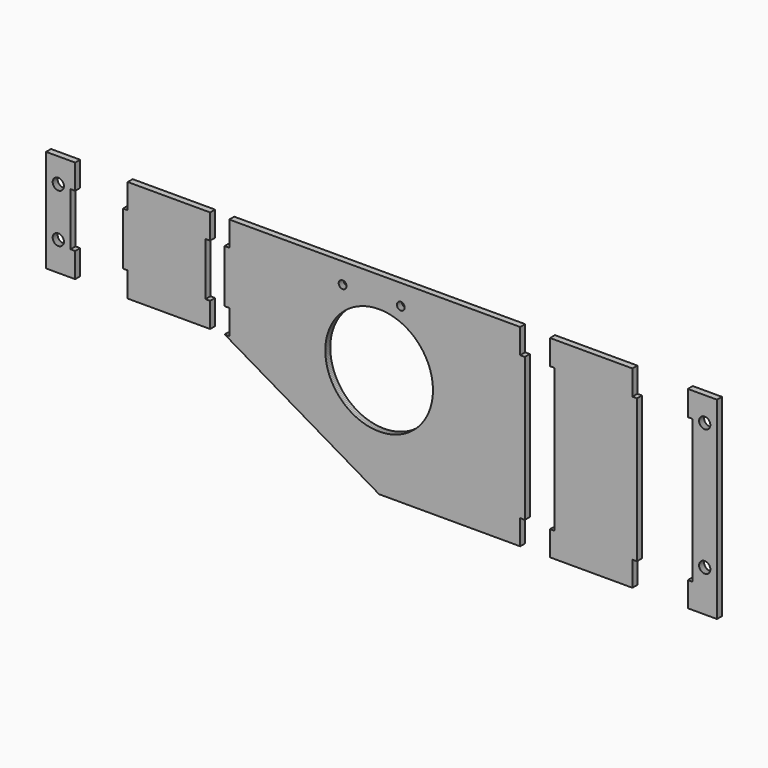
from build123d import *

# Parameters (mm, degrees)
F1_DEPTH = 6.35


with BuildPart() as f1:
    # F0 (on Front) → F1 (new body)
    with BuildSketch(Plane.XZ):
        Polygon((-317.992633, -6.23123), (-313.230133, -6.23123), (-313.230133, 19.16877), (-317.992633, 19.16877), (-317.992633, 73.331273), (-313.230133, 73.331273), (-313.230133, 98.731273), (-317.992633, 98.731273), (-342.992634, 98.731273), (-342.992634, -6.23123), align=None)
        Polygon((-330.620268, 29.47985), (-330.492633, 29.481272), (-330.364998, 29.47985), (-330.236297, 29.475557), (-330.106579, 29.468293), (-329.975972, 29.458006), (-329.844527, 29.44462), (-329.712396, 29.428084), (-329.57963, 29.408323), (-329.446357, 29.385285), (-329.312676, 29.358895), (-329.178717, 29.329151), (-329.04463, 29.295954), (-328.910467, 29.259327), (-328.776406, 29.219169), (-328.642574, 29.175507), (-328.509097, 29.128314), (-328.376077, 29.077564), (-328.243717, 29.023234), (-328.112095, 28.965347), (-327.981361, 28.903905), (-327.851694, 28.838906), (-327.723195, 28.770377), (-327.596017, 28.698368), (-327.470287, 28.622904), (-327.346183, 28.543987), (-327.223806, 28.461716), (-327.103283, 28.376143), (-326.984792, 28.28732), (-326.868409, 28.195295), (-326.754312, 28.100198), (-326.642603, 28.002052), (-326.533383, 27.901011), (-326.426779, 27.797125), (-326.322893, 27.690521), (-326.221852, 27.581301), (-326.123706, 27.469592), (-326.028609, 27.355495), (-325.936585, 27.239112), (-325.847761, 27.120621), (-325.762188, 27.000098), (-325.679918, 26.877721), (-325.601, 26.753617), (-325.525536, 26.627887), (-325.453527, 26.500709), (-325.384998, 26.37221), (-325.32, 26.242543), (-325.258557, 26.11181), (-325.20067, 25.980187), (-325.14634, 25.847827), (-325.095591, 25.714808), (-325.048397, 25.581331), (-325.004735, 25.447498), (-324.964577, 25.313437), (-324.927951, 25.179274), (-324.894753, 25.045187), (-324.865009, 24.911228), (-324.838619, 24.777548), (-324.815581, 24.644274), (-324.79582, 24.511508), (-324.779284, 24.379377), (-324.765899, 24.247932), (-324.755612, 24.117325), (-324.748347, 23.987608), (-324.744055, 23.858906), (-324.742632, 23.731271), (-324.744055, 23.603636), (-324.748347, 23.474934), (-324.755612, 23.345216), (-324.765899, 23.214609), (-324.779284, 23.083164), (-324.79582, 22.951034), (-324.815581, 22.818268), (-324.838619, 22.684994), (-324.865009, 22.551314), (-324.894753, 22.417354), (-324.927951, 22.283268), (-324.964577, 22.149105), (-325.004735, 22.015044), (-325.048397, 21.881211), (-325.095591, 21.747734), (-325.14634, 21.614714), (-325.20067, 21.482355), (-325.258557, 21.350732), (-325.32, 21.219998), (-325.384998, 21.090331), (-325.453527, 20.961833), (-325.525536, 20.834655), (-325.601, 20.708925), (-325.679918, 20.58482), (-325.762188, 20.462443), (-325.847761, 20.34192), (-325.936585, 20.223429), (-326.028609, 20.107046), (-326.123706, 19.99295), (-326.221852, 19.88124), (-326.322893, 19.77202), (-326.426779, 19.665417), (-326.533383, 19.561531), (-326.642603, 19.460464), (-326.754312, 19.362344), (-326.868409, 19.267246), (-326.984792, 19.175222), (-327.103283, 19.086398), (-327.223806, 19.000826), (-327.346183, 18.918555), (-327.470287, 18.839637), (-327.596017, 18.764174), (-327.723195, 18.692165), (-327.851694, 18.623636), (-327.981361, 18.558637), (-328.112095, 18.497194), (-328.243717, 18.439308), (-328.376077, 18.384977), (-328.509097, 18.334228), (-328.642574, 18.287035), (-328.776406, 18.243372), (-328.910467, 18.203215), (-329.04463, 18.166588), (-329.178717, 18.13339), (-329.312676, 18.103647), (-329.446357, 18.077256), (-329.57963, 18.054218), (-329.712396, 18.034457), (-329.844527, 18.017922), (-329.975972, 18.004536), (-330.106579, 17.994249), (-330.236297, 17.986985), (-330.364998, 17.982692), (-330.492633, 17.98127), (-330.620268, 17.982692), (-330.74897, 17.986985), (-330.878688, 17.994249), (-331.009295, 18.004536), (-331.14074, 18.017922), (-331.272871, 18.034457), (-331.405636, 18.054218), (-331.53891, 18.077256), (-331.67259, 18.103647), (-331.80655, 18.13339), (-331.940637, 18.166588), (-332.074799, 18.203215), (-332.208861, 18.243372), (-332.342693, 18.287035), (-332.47617, 18.334228), (-332.60919, 18.384977), (-332.741549, 18.439308), (-332.873172, 18.497194), (-333.003906, 18.558637), (-333.133573, 18.623636), (-333.262072, 18.692165), (-333.389249, 18.764174), (-333.514979, 18.839637), (-333.639084, 18.918555), (-333.761461, 19.000826), (-333.881984, 19.086398), (-334.000475, 19.175222), (-334.116858, 19.267246), (-334.230955, 19.362344), (-334.342664, 19.460464), (-334.451884, 19.561531), (-334.558488, 19.665417), (-334.662374, 19.77202), (-334.76344, 19.88124), (-334.86156, 19.99295), (-334.956658, 20.107046), (-335.048682, 20.223429), (-335.137506, 20.34192), (-335.223079, 20.462443), (-335.305349, 20.58482), (-335.384267, 20.708925), (-335.45973, 20.834655), (-335.531739, 20.961833), (-335.600269, 21.090331), (-335.665267, 21.219998), (-335.72671, 21.350732), (-335.784596, 21.482355), (-335.838927, 21.614714), (-335.889676, 21.747734), (-335.936869, 21.881211), (-335.980532, 22.015044), (-336.020689, 22.149105), (-336.057316, 22.283268), (-336.090514, 22.417354), (-336.120257, 22.551314), (-336.146648, 22.684994), (-336.169686, 22.818268), (-336.189447, 22.951034), (-336.205982, 23.083164), (-336.219368, 23.214609), (-336.229655, 23.345216), (-336.23692, 23.474934), (-336.241212, 23.603636), (-336.242635, 23.731271), (-336.241212, 23.858906), (-336.23692, 23.987608), (-336.229655, 24.117325), (-336.219368, 24.247932), (-336.205982, 24.379377), (-336.189447, 24.511508), (-336.169686, 24.644274), (-336.146648, 24.777548), (-336.120257, 24.911228), (-336.090514, 25.045187), (-336.057316, 25.179274), (-336.020689, 25.313437), (-335.980532, 25.447498), (-335.936869, 25.581331), (-335.889676, 25.714808), (-335.838927, 25.847827), (-335.784596, 25.980187), (-335.72671, 26.11181), (-335.665267, 26.242543), (-335.600269, 26.37221), (-335.531739, 26.500709), (-335.45973, 26.627887), (-335.384267, 26.753617), (-335.305349, 26.877721), (-335.223079, 27.000098), (-335.137506, 27.120621), (-335.048682, 27.239112), (-334.956658, 27.355495), (-334.86156, 27.469592), (-334.76344, 27.581301), (-334.662374, 27.690521), (-334.558488, 27.797125), (-334.451884, 27.901011), (-334.342664, 28.002052), (-334.230955, 28.100198), (-334.116858, 28.195295), (-334.000475, 28.28732), (-333.881984, 28.376143), (-333.761461, 28.461716), (-333.639084, 28.543987), (-333.514979, 28.622904), (-333.389249, 28.698368), (-333.262072, 28.770377), (-333.133573, 28.838906), (-333.003906, 28.903905), (-332.873172, 28.965347), (-332.741549, 29.023234), (-332.60919, 29.077564), (-332.47617, 29.128314), (-332.342693, 29.175507), (-332.208861, 29.219169), (-332.074799, 29.259327), (-331.940637, 29.295954), (-331.80655, 29.329151), (-331.67259, 29.358895), (-331.53891, 29.385285), (-331.405636, 29.408323), (-331.272871, 29.428084), (-331.14074, 29.44462), (-331.009295, 29.458006), (-330.878688, 29.468293), (-330.74897, 29.475557), align=None, mode=Mode.SUBTRACT)
        Polygon((-330.620268, 79.479851), (-330.492633, 79.481274), (-330.364998, 79.479851), (-330.236297, 79.475559), (-330.106579, 79.468294), (-329.975972, 79.458007), (-329.844527, 79.444621), (-329.712396, 79.428086), (-329.57963, 79.408325), (-329.446357, 79.385287), (-329.312676, 79.358896), (-329.178717, 79.329153), (-329.04463, 79.295955), (-328.910467, 79.259303), (-328.776406, 79.219171), (-328.642574, 79.175508), (-328.509097, 79.128315), (-328.376077, 79.077541), (-328.243717, 79.023235), (-328.112095, 78.965349), (-327.981361, 78.903906), (-327.851694, 78.838908), (-327.723195, 78.770378), (-327.596017, 78.698369), (-327.470287, 78.622881), (-327.346183, 78.543988), (-327.223806, 78.461718), (-327.103283, 78.376145), (-326.984792, 78.287321), (-326.868409, 78.195297), (-326.754312, 78.100199), (-326.642603, 78.002054), (-326.533383, 77.901013), (-326.426779, 77.797127), (-326.322893, 77.690523), (-326.221852, 77.581303), (-326.123706, 77.469594), (-326.028609, 77.355497), (-325.936585, 77.239114), (-325.847761, 77.120623), (-325.762188, 77.0001), (-325.679918, 76.877723), (-325.601, 76.753618), (-325.525536, 76.627888), (-325.453527, 76.500711), (-325.384998, 76.372212), (-325.32, 76.242545), (-325.258557, 76.111811), (-325.20067, 75.980188), (-325.14634, 75.847804), (-325.095591, 75.714809), (-325.048397, 75.581332), (-325.004735, 75.4475), (-324.964577, 75.313438), (-324.927951, 75.179276), (-324.894753, 75.045164), (-324.865009, 74.911229), (-324.838619, 74.777549), (-324.815581, 74.644275), (-324.79582, 74.51151), (-324.779284, 74.379379), (-324.765899, 74.247934), (-324.755612, 74.117327), (-324.748347, 73.987609), (-324.744055, 73.858907), (-324.742632, 73.731272), (-324.744055, 73.603637), (-324.748347, 73.474936), (-324.755612, 73.345218), (-324.765899, 73.214611), (-324.779284, 73.083166), (-324.79582, 72.95101), (-324.815581, 72.818244), (-324.838619, 72.68497), (-324.865009, 72.551315), (-324.894753, 72.417356), (-324.927951, 72.283269), (-324.964577, 72.149106), (-325.004735, 72.015045), (-325.048397, 71.881213), (-325.095591, 71.747736), (-325.14634, 71.614716), (-325.20067, 71.482356), (-325.258557, 71.350734), (-325.32, 71.22), (-325.384998, 71.090333), (-325.453527, 70.961834), (-325.525536, 70.834656), (-325.601, 70.708926), (-325.679918, 70.584822), (-325.762188, 70.462445), (-325.847761, 70.341922), (-325.936585, 70.223431), (-326.028609, 70.107048), (-326.123706, 69.992951), (-326.221852, 69.881217), (-326.322893, 69.772022), (-326.426779, 69.665418), (-326.533383, 69.561532), (-326.642603, 69.460466), (-326.754312, 69.362345), (-326.868409, 69.267248), (-326.984792, 69.175224), (-327.103283, 69.0864), (-327.223806, 69.000827), (-327.346183, 68.918557), (-327.470287, 68.839639), (-327.596017, 68.764175), (-327.723195, 68.692166), (-327.851694, 68.623637), (-327.981361, 68.558639), (-328.112095, 68.497196), (-328.243717, 68.439309), (-328.376077, 68.384979), (-328.509097, 68.33423), (-328.642574, 68.287036), (-328.776406, 68.243374), (-328.910467, 68.203216), (-329.04463, 68.16659), (-329.178717, 68.133392), (-329.312676, 68.103648), (-329.446357, 68.077258), (-329.57963, 68.05422), (-329.712396, 68.034459), (-329.844527, 68.017923), (-329.975972, 68.004538), (-330.106579, 67.994251), (-330.236297, 67.986986), (-330.364998, 67.982694), (-330.492633, 67.981271), (-330.620268, 67.982694), (-330.74897, 67.986986), (-330.878688, 67.994251), (-331.009295, 68.004538), (-331.14074, 68.017923), (-331.272871, 68.034459), (-331.405636, 68.05422), (-331.53891, 68.077258), (-331.67259, 68.103648), (-331.80655, 68.133392), (-331.940637, 68.16659), (-332.074799, 68.203216), (-332.208861, 68.243374), (-332.342693, 68.287036), (-332.47617, 68.33423), (-332.60919, 68.384979), (-332.741549, 68.439309), (-332.873172, 68.497196), (-333.003906, 68.558639), (-333.133573, 68.623637), (-333.262072, 68.692166), (-333.389249, 68.764175), (-333.514979, 68.839639), (-333.639084, 68.918557), (-333.761461, 69.000827), (-333.881984, 69.0864), (-334.000475, 69.175224), (-334.116858, 69.267248), (-334.230955, 69.362345), (-334.342664, 69.460466), (-334.451884, 69.561532), (-334.558488, 69.665418), (-334.662374, 69.772022), (-334.76344, 69.881217), (-334.86156, 69.992951), (-334.956658, 70.107048), (-335.048682, 70.223431), (-335.137506, 70.341922), (-335.223079, 70.462445), (-335.305349, 70.584822), (-335.384267, 70.708926), (-335.45973, 70.834656), (-335.531739, 70.961834), (-335.600269, 71.090333), (-335.665267, 71.22), (-335.72671, 71.350734), (-335.784596, 71.482356), (-335.838927, 71.614716), (-335.889676, 71.747736), (-335.936869, 71.881213), (-335.980532, 72.015045), (-336.020689, 72.149106), (-336.057316, 72.283269), (-336.090514, 72.417356), (-336.120257, 72.551315), (-336.146648, 72.68497), (-336.169686, 72.818244), (-336.189447, 72.95101), (-336.205982, 73.083166), (-336.219368, 73.214611), (-336.229655, 73.345218), (-336.23692, 73.474936), (-336.241212, 73.603637), (-336.242635, 73.731272), (-336.241212, 73.858907), (-336.23692, 73.987609), (-336.229655, 74.117327), (-336.219368, 74.247934), (-336.205982, 74.379379), (-336.189447, 74.51151), (-336.169686, 74.644275), (-336.146648, 74.777549), (-336.120257, 74.911229), (-336.090514, 75.045164), (-336.057316, 75.179276), (-336.020689, 75.313438), (-335.980532, 75.4475), (-335.936869, 75.581332), (-335.889676, 75.714809), (-335.838927, 75.847804), (-335.784596, 75.980188), (-335.72671, 76.111811), (-335.665267, 76.242545), (-335.600269, 76.372212), (-335.531739, 76.500711), (-335.45973, 76.627888), (-335.384267, 76.753618), (-335.305349, 76.877723), (-335.223079, 77.0001), (-335.137506, 77.120623), (-335.048682, 77.239114), (-334.956658, 77.355497), (-334.86156, 77.469594), (-334.76344, 77.581303), (-334.662374, 77.690523), (-334.558488, 77.797127), (-334.451884, 77.901013), (-334.342664, 78.002054), (-334.230955, 78.100199), (-334.116858, 78.195297), (-334.000475, 78.287321), (-333.881984, 78.376145), (-333.761461, 78.461718), (-333.639084, 78.543988), (-333.514979, 78.622881), (-333.389249, 78.698369), (-333.262072, 78.770378), (-333.133573, 78.838908), (-333.003906, 78.903906), (-332.873172, 78.965349), (-332.741549, 79.023235), (-332.60919, 79.077541), (-332.47617, 79.128315), (-332.342693, 79.175508), (-332.208861, 79.219171), (-332.074799, 79.259303), (-331.940637, 79.295955), (-331.80655, 79.329153), (-331.67259, 79.358896), (-331.53891, 79.385287), (-331.405636, 79.408325), (-331.272871, 79.428086), (-331.14074, 79.444621), (-331.009295, 79.458007), (-330.878688, 79.468294), (-330.74897, 79.475559), align=None, mode=Mode.SUBTRACT)
        Polygon((-264.267747, 19.16877), (-259.505247, 19.16877), (-259.505247, -6.23123), (-180.030247, -6.23123), (-175.267747, -6.23123), (-175.267747, 19.16877), (-180.030247, 19.16877), (-180.030247, 73.331273), (-175.267747, 73.331273), (-175.267747, 98.731273), (-180.030247, 98.731273), (-259.505247, 98.731273), (-259.505247, 73.331273), (-264.267747, 73.331273), align=None)
        Polygon((-160.435646, 73.331273), (-160.435646, 19.16877), (-155.673146, 19.16877), (-155.673146, -6.23123), (-160.435646, -6.23123), (-2.435657, -98.731222), (141.80185, -98.731222), (141.80185, -73.331222), (146.56435, -73.331222), (146.56435, 73.331273), (141.80185, 73.331273), (141.80185, 98.731273), (-155.673146, 98.731273), (-155.673146, 73.331273), align=None)
        Polygon((-3.656432, 67.755211), (-2.435657, 67.768775), (-1.214882, 67.755211), (0.016256, 67.714089), (1.256944, 67.64467), (2.506345, 67.546296), (3.763543, 67.41828), (5.0276, 67.260064), (6.297524, 67.070986), (7.572324, 66.850565), (8.850884, 66.598267), (10.132136, 66.313609), (11.414912, 65.996236), (12.698044, 65.645716), (13.980338, 65.261769), (15.260523, 64.844143), (16.537381, 64.392658), (17.809566, 63.907137), (19.075806, 63.387529), (20.334783, 62.833809), (21.585149, 62.246053), (22.825558, 61.624388), (24.054689, 60.969017), (25.271171, 60.280169), (26.473683, 59.558199), (27.660879, 58.803515), (28.831489, 58.016597), (29.984167, 57.197981), (31.117667, 56.3483), (32.230746, 55.46819), (33.322209, 54.558438), (34.390838, 53.619832), (35.43554, 52.65326), (36.455223, 51.659638), (37.448846, 50.639955), (38.415417, 49.595253), (39.354023, 48.526624), (40.263775, 47.43516), (41.143885, 46.322082), (41.993566, 45.188581), (42.812183, 44.035904), (43.5991, 42.865319), (44.353785, 41.678098), (45.075754, 40.475586), (45.764577, 39.259104), (46.419973, 38.029972), (47.041638, 36.789563), (47.629394, 35.539197), (48.183089, 34.280221), (48.702722, 33.01398), (49.188243, 31.741796), (49.639728, 30.464938), (50.057355, 29.184752), (50.441301, 27.902484), (50.791796, 26.619327), (51.109194, 25.336551), (51.393852, 24.055299), (51.64615, 22.776739), (51.866571, 21.501964), (52.055649, 20.232014), (52.213866, 18.967958), (52.341882, 17.71076), (52.440256, 16.461384), (52.509674, 15.220696), (52.550797, 13.989558), (52.56436, 12.768758), (52.550797, 11.547983), (52.509674, 10.316845), (52.440256, 9.076157), (52.341882, 7.826781), (52.213866, 6.569583), (52.055649, 5.305527), (51.866571, 4.035577), (51.64615, 2.760802), (51.393852, 1.482242), (51.109194, 0.20099), (50.791796, -1.081786), (50.441301, -2.364943), (50.057355, -3.647211), (49.639728, -4.927397), (49.188243, -6.204255), (48.702722, -7.476439), (48.183089, -8.74268), (47.629394, -10.001656), (47.041638, -11.252022), (46.419973, -12.492431), (45.764577, -13.721563), (45.075754, -14.938045), (44.353785, -16.140557), (43.5991, -17.327778), (42.812183, -18.498363), (41.993566, -19.65104), (41.143885, -20.784541), (40.263775, -21.897619), (39.354023, -22.989083), (38.415417, -24.057712), (37.448846, -25.102414), (36.455223, -26.122097), (35.43554, -27.115719), (34.390838, -28.082291), (33.322209, -29.020897), (32.230746, -29.930649), (31.117667, -30.810759), (29.984167, -31.66044), (28.831489, -32.479056), (27.660879, -33.265974), (26.473683, -34.020658), (25.271171, -34.742628), (24.054689, -35.431476), (22.825558, -36.086847), (21.585149, -36.708512), (20.334783, -37.296268), (19.075806, -37.849988), (17.809566, -38.369596), (16.537381, -38.855117), (15.260523, -39.306602), (13.980338, -39.724228), (12.698044, -40.108175), (11.414912, -40.458695), (10.132136, -40.776068), (8.850884, -41.060726), (7.572324, -41.313024), (6.297524, -41.533445), (5.0276, -41.722523), (3.763543, -41.880739), (2.506345, -42.008755), (1.256944, -42.107129), (0.016256, -42.176548), (-1.214882, -42.21767), (-2.435657, -42.231234), (-3.656432, -42.21767), (-4.88757, -42.176548), (-6.128258, -42.107129), (-7.377633, -42.008755), (-8.634832, -41.880739), (-9.898888, -41.722523), (-11.168837, -41.533445), (-12.443612, -41.313024), (-13.722172, -41.060726), (-15.003424, -40.776068), (-16.286201, -40.458695), (-17.569358, -40.108175), (-18.851626, -39.724228), (-20.131837, -39.306602), (-21.408669, -38.855117), (-22.680854, -38.369596), (-23.947095, -37.849988), (-25.206071, -37.296268), (-26.456437, -36.708512), (-27.696846, -36.086847), (-28.925977, -35.431476), (-30.142459, -34.742628), (-31.344972, -34.020658), (-32.532193, -33.265974), (-33.702777, -32.479056), (-34.855455, -31.66044), (-35.988955, -30.810759), (-37.102034, -29.930649), (-38.193497, -29.020897), (-39.262126, -28.082291), (-40.306828, -27.115719), (-41.326511, -26.122097), (-42.320134, -25.102414), (-43.286705, -24.057712), (-44.225312, -22.989083), (-45.135063, -21.897619), (-46.015173, -20.784541), (-46.86488, -19.65104), (-47.683471, -18.498363), (-48.470388, -17.327778), (-49.225073, -16.140557), (-49.947043, -14.938045), (-50.635891, -13.721563), (-51.291261, -12.492431), (-51.912926, -11.252022), (-52.500682, -10.001656), (-53.054402, -8.74268), (-53.57401, -7.476439), (-54.059531, -6.204255), (-54.511016, -4.927397), (-54.928643, -3.647211), (-55.312589, -2.364943), (-55.663109, -1.081786), (-55.980482, 0.20099), (-56.26514, 1.482242), (-56.517438, 2.760802), (-56.73786, 4.035577), (-56.926937, 5.305527), (-57.085179, 6.569583), (-57.21317, 7.826781), (-57.311544, 9.076157), (-57.380962, 10.316845), (-57.422085, 11.547983), (-57.435648, 12.768758), (-57.422085, 13.989558), (-57.380962, 15.220696), (-57.311544, 16.461384), (-57.21317, 17.71076), (-57.085179, 18.967958), (-56.926937, 20.232014), (-56.73786, 21.501964), (-56.517438, 22.776739), (-56.26514, 24.055299), (-55.980482, 25.336551), (-55.663109, 26.619327), (-55.312589, 27.902484), (-54.928643, 29.184752), (-54.511016, 30.464938), (-54.059531, 31.741796), (-53.57401, 33.01398), (-53.054402, 34.280221), (-52.500682, 35.539197), (-51.912926, 36.789563), (-51.291261, 38.029972), (-50.635891, 39.259104), (-49.947043, 40.475586), (-49.225073, 41.678098), (-48.470388, 42.865319), (-47.683471, 44.035904), (-46.86488, 45.188581), (-46.015173, 46.322082), (-45.135063, 47.43516), (-44.225312, 48.526624), (-43.286705, 49.595253), (-42.320134, 50.639955), (-41.326511, 51.659638), (-40.306828, 52.65326), (-39.262126, 53.619832), (-38.193497, 54.558438), (-37.102034, 55.46819), (-35.988955, 56.3483), (-34.855455, 57.197981), (-33.702777, 58.016597), (-32.532193, 58.803515), (-31.344972, 59.558199), (-30.142459, 60.280169), (-28.925977, 60.969017), (-27.696846, 61.624388), (-26.456437, 62.246053), (-25.206071, 62.833809), (-23.947095, 63.387529), (-22.680854, 63.907137), (-21.408669, 64.392658), (-20.131837, 64.844143), (-18.851626, 65.261769), (-17.569358, 65.645716), (-16.286201, 65.996236), (-15.003424, 66.313609), (-13.722172, 66.598267), (-12.443612, 66.850565), (-11.168837, 67.070986), (-9.898888, 67.260064), (-8.634832, 67.41828), (-7.377633, 67.546296), (-6.128258, 67.64467), (-4.88757, 67.714089), align=None, mode=Mode.SUBTRACT)
        Polygon((-39.846326, 81.766385), (-39.757553, 81.767375), (-39.668755, 81.766385), (-39.57922, 81.763387), (-39.488999, 81.758333), (-39.398118, 81.751195), (-39.306703, 81.741874), (-39.214755, 81.730367), (-39.122401, 81.716626), (-39.029691, 81.700599), (-38.936701, 81.682234), (-38.843534, 81.661533), (-38.75024, 81.63847), (-38.65692, 81.612969), (-38.563652, 81.585054), (-38.470561, 81.554676), (-38.377698, 81.521833), (-38.285166, 81.486527), (-38.193066, 81.448732), (-38.101524, 81.408473), (-38.010592, 81.365725), (-37.920371, 81.320513), (-37.830989, 81.272837), (-37.742495, 81.222748), (-37.655043, 81.170247), (-37.568708, 81.115357), (-37.483567, 81.058131), (-37.399747, 80.998593), (-37.317299, 80.936795), (-37.236349, 80.872787), (-37.156974, 80.80662), (-37.07925, 80.738345), (-37.003279, 80.668063), (-36.929111, 80.5958), (-36.856848, 80.521632), (-36.786566, 80.445661), (-36.718291, 80.367937), (-36.652124, 80.288562), (-36.588116, 80.207612), (-36.526343, 80.125164), (-36.466805, 80.041344), (-36.409554, 79.956203), (-36.35469, 79.869868), (-36.302163, 79.782416), (-36.252074, 79.693948), (-36.204398, 79.60454), (-36.159186, 79.514344), (-36.116463, 79.423412), (-36.076179, 79.331845), (-36.038384, 79.239745), (-36.003078, 79.147238), (-35.970235, 79.054376), (-35.939882, 78.961259), (-35.911942, 78.867991), (-35.886466, 78.774696), (-35.863378, 78.681402), (-35.842677, 78.58821), (-35.824312, 78.49522), (-35.808285, 78.40251), (-35.794544, 78.310156), (-35.783037, 78.218233), (-35.773716, 78.126793), (-35.766578, 78.035912), (-35.761524, 77.945691), (-35.758526, 77.856156), (-35.757536, 77.767358), (-35.758526, 77.678585), (-35.761524, 77.58905), (-35.766578, 77.498829), (-35.773716, 77.407948), (-35.783037, 77.316508), (-35.794544, 77.224585), (-35.808285, 77.132231), (-35.824312, 77.039521), (-35.842677, 76.946531), (-35.863378, 76.853339), (-35.886466, 76.760045), (-35.911942, 76.666725), (-35.939882, 76.573482), (-35.970235, 76.480365), (-36.003078, 76.387503), (-36.038384, 76.294996), (-36.076179, 76.202896), (-36.116463, 76.111329), (-36.159186, 76.020397), (-36.204398, 75.930201), (-36.252074, 75.840793), (-36.302163, 75.752325), (-36.35469, 75.664873), (-36.409554, 75.578538), (-36.466805, 75.493397), (-36.526343, 75.409577), (-36.588116, 75.327129), (-36.652124, 75.246179), (-36.718291, 75.166804), (-36.786566, 75.08908), (-36.856848, 75.013109), (-36.929111, 74.938941), (-37.003279, 74.866678), (-37.07925, 74.796396), (-37.156974, 74.728121), (-37.236349, 74.661954), (-37.317299, 74.597946), (-37.399747, 74.536148), (-37.483567, 74.47661), (-37.568708, 74.419384), (-37.655043, 74.364494), (-37.742495, 74.311993), (-37.830989, 74.261904), (-37.920371, 74.214228), (-38.010592, 74.169016), (-38.101524, 74.126268), (-38.193066, 74.086009), (-38.285166, 74.048214), (-38.377698, 74.012908), (-38.470561, 73.980065), (-38.563652, 73.949687), (-38.65692, 73.921772), (-38.75024, 73.896271), (-38.843534, 73.873208), (-38.936701, 73.852507), (-39.029691, 73.834142), (-39.122401, 73.818115), (-39.214755, 73.804374), (-39.306703, 73.792867), (-39.398118, 73.783546), (-39.488999, 73.776408), (-39.57922, 73.771354), (-39.668755, 73.768356), (-39.757553, 73.767366), (-39.846326, 73.768356), (-39.935861, 73.771354), (-40.026107, 73.776408), (-40.116963, 73.783546), (-40.208403, 73.792867), (-40.300326, 73.804374), (-40.39268, 73.818115), (-40.48539, 73.834142), (-40.57838, 73.852507), (-40.671572, 73.873208), (-40.764866, 73.896271), (-40.858186, 73.921772), (-40.951429, 73.949687), (-41.044546, 73.980065), (-41.137408, 74.012908), (-41.229915, 74.048214), (-41.322015, 74.086009), (-41.413582, 74.126268), (-41.504514, 74.169016), (-41.594735, 74.214228), (-41.684118, 74.261904), (-41.772586, 74.311993), (-41.860038, 74.364494), (-41.946373, 74.419384), (-42.031514, 74.47661), (-42.115359, 74.536148), (-42.197782, 74.597946), (-42.278732, 74.661954), (-42.358107, 74.728121), (-42.435831, 74.796396), (-42.511802, 74.866678), (-42.58597, 74.938941), (-42.658233, 75.013109), (-42.72854, 75.08908), (-42.79679, 75.166804), (-42.862957, 75.246179), (-42.926965, 75.327129), (-42.988763, 75.409577), (-43.048301, 75.493397), (-43.105527, 75.578538), (-43.160417, 75.664873), (-43.212918, 75.752325), (-43.263007, 75.840793), (-43.310683, 75.930201), (-43.355895, 76.020397), (-43.398643, 76.111329), (-43.438902, 76.202896), (-43.476697, 76.294996), (-43.512003, 76.387503), (-43.544846, 76.480365), (-43.575224, 76.573482), (-43.603139, 76.666725), (-43.62864, 76.760045), (-43.651729, 76.853339), (-43.67243, 76.946531), (-43.690769, 77.039521), (-43.706796, 77.132231), (-43.720537, 77.224585), (-43.732069, 77.316508), (-43.741365, 77.407948), (-43.748528, 77.498829), (-43.753557, 77.58905), (-43.756555, 77.678585), (-43.757545, 77.767358), (-43.756555, 77.856156), (-43.753557, 77.945691), (-43.748528, 78.035912), (-43.741365, 78.126793), (-43.732069, 78.218233), (-43.720537, 78.310156), (-43.706796, 78.40251), (-43.690769, 78.49522), (-43.67243, 78.58821), (-43.651729, 78.681402), (-43.62864, 78.774696), (-43.603139, 78.867991), (-43.575224, 78.961259), (-43.544846, 79.054376), (-43.512003, 79.147238), (-43.476697, 79.239745), (-43.438902, 79.331845), (-43.398643, 79.423412), (-43.355895, 79.514344), (-43.310683, 79.60454), (-43.263007, 79.693948), (-43.212918, 79.782416), (-43.160417, 79.869868), (-43.105527, 79.956203), (-43.048301, 80.041344), (-42.988763, 80.125164), (-42.926965, 80.207612), (-42.862957, 80.288562), (-42.79679, 80.367937), (-42.72854, 80.445661), (-42.658233, 80.521632), (-42.58597, 80.5958), (-42.511802, 80.668063), (-42.435831, 80.738345), (-42.358107, 80.80662), (-42.278732, 80.872787), (-42.197782, 80.936795), (-42.115359, 80.998593), (-42.031514, 81.058131), (-41.946373, 81.115357), (-41.860038, 81.170247), (-41.772586, 81.222748), (-41.684118, 81.272837), (-41.594735, 81.320513), (-41.504514, 81.365725), (-41.413582, 81.408473), (-41.322015, 81.448732), (-41.229915, 81.486527), (-41.137408, 81.521833), (-41.044546, 81.554676), (-40.951429, 81.585054), (-40.858186, 81.612969), (-40.764866, 81.63847), (-40.671572, 81.661533), (-40.57838, 81.682234), (-40.48539, 81.700599), (-40.39268, 81.716626), (-40.300326, 81.730367), (-40.208403, 81.741874), (-40.116963, 81.751195), (-40.026107, 81.758333), (-39.935861, 81.763387), align=None, mode=Mode.SUBTRACT)
        Polygon((19.633692, 81.765394), (19.722465, 81.766385), (19.811213, 81.765394), (19.900722, 81.762397), (19.990943, 81.757368), (20.081773, 81.750205), (20.173188, 81.740908), (20.265111, 81.729402), (20.35744, 81.715661), (20.450124, 81.699633), (20.543088, 81.681269), (20.636255, 81.660594), (20.729524, 81.637505), (20.822818, 81.612029), (20.916062, 81.584114), (21.009127, 81.553736), (21.101964, 81.520919), (21.194471, 81.485613), (21.286546, 81.447818), (21.378088, 81.407559), (21.468994, 81.364836), (21.55919, 81.319624), (21.648547, 81.271974), (21.73699, 81.221885), (21.824442, 81.169408), (21.910751, 81.114519), (21.995867, 81.057318), (22.079687, 80.997781), (22.162084, 80.936008), (22.243034, 80.872025), (22.322384, 80.805858), (22.400082, 80.737634), (22.476054, 80.667352), (22.550196, 80.595089), (22.622434, 80.520972), (22.692716, 80.445), (22.760965, 80.367302), (22.827107, 80.287952), (22.89109, 80.207002), (22.952862, 80.124605), (23.0124, 80.040785), (23.069601, 79.955669), (23.12449, 79.86936), (23.176967, 79.781908), (23.227055, 79.693465), (23.274706, 79.604108), (23.319918, 79.513913), (23.362641, 79.422981), (23.4029, 79.331464), (23.440695, 79.239389), (23.476001, 79.146883), (23.508818, 79.054046), (23.539196, 78.960955), (23.567111, 78.867737), (23.592587, 78.774442), (23.615675, 78.681174), (23.636351, 78.588006), (23.654715, 78.495042), (23.670743, 78.402358), (23.684484, 78.310029), (23.69599, 78.218106), (23.705287, 78.126692), (23.712449, 78.035861), (23.717504, 77.94564), (23.720476, 77.856131), (23.721466, 77.767358), (23.720476, 77.67861), (23.717504, 77.589101), (23.712449, 77.49888), (23.705287, 77.408049), (23.69599, 77.316635), (23.684484, 77.224712), (23.670743, 77.132383), (23.654715, 77.039699), (23.636351, 76.946735), (23.615675, 76.853567), (23.592587, 76.760299), (23.567111, 76.667004), (23.539196, 76.573786), (23.508818, 76.480695), (23.476001, 76.387858), (23.440695, 76.295352), (23.4029, 76.203277), (23.362641, 76.111735), (23.319918, 76.020828), (23.274706, 75.930633), (23.227055, 75.841276), (23.176967, 75.752833), (23.12449, 75.665381), (23.069601, 75.579072), (23.0124, 75.493956), (22.952862, 75.410136), (22.89109, 75.327739), (22.827107, 75.246789), (22.760965, 75.167439), (22.692716, 75.089741), (22.622434, 75.013769), (22.550196, 74.939652), (22.476054, 74.867389), (22.400082, 74.797107), (22.322384, 74.728883), (22.243034, 74.662716), (22.162084, 74.598733), (22.079687, 74.53696), (21.995867, 74.477423), (21.910751, 74.420222), (21.824442, 74.365333), (21.73699, 74.312856), (21.648547, 74.262767), (21.55919, 74.215117), (21.468994, 74.169905), (21.378088, 74.127182), (21.286546, 74.086923), (21.194471, 74.049128), (21.101964, 74.013822), (21.009127, 73.981005), (20.916062, 73.950627), (20.822818, 73.922712), (20.729524, 73.897236), (20.636255, 73.874147), (20.543088, 73.853472), (20.450124, 73.835108), (20.35744, 73.81908), (20.265111, 73.805339), (20.173188, 73.793833), (20.081773, 73.784536), (19.990943, 73.777373), (19.900722, 73.772344), (19.811213, 73.769347), (19.722465, 73.768356), (19.633692, 73.769347), (19.544182, 73.772344), (19.453962, 73.777373), (19.363131, 73.784536), (19.271717, 73.793833), (19.179794, 73.805339), (19.087465, 73.81908), (18.99478, 73.835108), (18.901816, 73.853472), (18.808649, 73.874147), (18.71538, 73.897236), (18.622086, 73.922712), (18.528868, 73.950627), (18.435777, 73.981005), (18.34294, 74.013822), (18.250433, 74.049128), (18.158358, 74.086923), (18.066842, 74.127182), (17.97591, 74.169905), (17.88574, 74.215117), (17.796358, 74.262767), (17.707915, 74.312856), (17.620463, 74.365333), (17.534153, 74.420222), (17.449038, 74.477423), (17.365218, 74.53696), (17.28282, 74.598733), (17.201871, 74.662716), (17.122521, 74.728883), (17.044822, 74.797107), (16.968851, 74.867389), (16.894734, 74.939652), (16.822471, 75.013769), (16.752189, 75.089741), (16.683965, 75.167439), (16.617798, 75.246789), (16.553815, 75.327739), (16.492042, 75.410136), (16.432505, 75.493956), (16.375304, 75.579072), (16.320414, 75.665381), (16.267938, 75.752833), (16.217849, 75.841276), (16.170199, 75.930633), (16.124987, 76.020828), (16.082264, 76.111735), (16.042005, 76.203277), (16.00421, 76.295352), (15.968904, 76.387858), (15.936087, 76.480695), (15.905709, 76.573786), (15.877794, 76.667004), (15.852318, 76.760299), (15.829255, 76.853567), (15.808554, 76.946735), (15.790189, 77.039699), (15.774162, 77.132383), (15.760421, 77.224712), (15.748914, 77.316635), (15.739618, 77.408049), (15.732455, 77.49888), (15.727426, 77.589101), (15.724429, 77.67861), (15.723438, 77.767358), (15.724429, 77.856131), (15.727426, 77.94564), (15.732455, 78.035861), (15.739618, 78.126692), (15.748914, 78.218106), (15.760421, 78.310029), (15.774162, 78.402358), (15.790189, 78.495042), (15.808554, 78.588006), (15.829255, 78.681174), (15.852318, 78.774442), (15.877794, 78.867737), (15.905709, 78.960955), (15.936087, 79.054046), (15.968904, 79.146883), (16.00421, 79.239389), (16.042005, 79.331464), (16.082264, 79.422981), (16.124987, 79.513913), (16.170199, 79.604108), (16.217849, 79.693465), (16.267938, 79.781908), (16.320414, 79.86936), (16.375304, 79.955669), (16.432505, 80.040785), (16.492042, 80.124605), (16.553815, 80.207002), (16.617798, 80.287952), (16.683965, 80.367302), (16.752189, 80.445), (16.822471, 80.520972), (16.894734, 80.595089), (16.968851, 80.667352), (17.044822, 80.737634), (17.122521, 80.805858), (17.201871, 80.872025), (17.28282, 80.936008), (17.365218, 80.997781), (17.449038, 81.057318), (17.534153, 81.114519), (17.620463, 81.169408), (17.707915, 81.221885), (17.796358, 81.271974), (17.88574, 81.319624), (17.97591, 81.364836), (18.066842, 81.407559), (18.158358, 81.447818), (18.250433, 81.485613), (18.34294, 81.520919), (18.435777, 81.553736), (18.528868, 81.584114), (18.622086, 81.612029), (18.71538, 81.637505), (18.808649, 81.660594), (18.901816, 81.681269), (18.99478, 81.699633), (19.087465, 81.715661), (19.179794, 81.729402), (19.271717, 81.740908), (19.363131, 81.750205), (19.453962, 81.757368), (19.544182, 81.762397), align=None, mode=Mode.SUBTRACT)
        Polygon((261.268566, 73.331222), (256.506066, 73.331222), (256.506066, 98.731222), (177.031066, 98.731222), (172.268566, 98.731222), (172.268566, 73.331222), (177.031066, 73.331222), (177.031066, -73.331273), (172.268566, -73.331273), (172.268566, -98.731273), (177.031066, -98.731273), (256.506066, -98.731273), (256.506066, -73.331273), (261.268566, -73.331273), align=None)
        Polygon((317.992633, 98.731222), (313.230133, 98.731222), (313.230133, 73.331222), (317.992633, 73.331222), (317.992633, -73.331273), (313.230133, -73.331273), (313.230133, -98.731273), (317.992633, -98.731273), (342.992634, -98.731273), (342.992634, 98.731222), align=None)
        Polygon((330.365024, -50.520194), (330.492633, -50.518771), (330.620268, -50.520194), (330.74897, -50.524486), (330.878688, -50.531751), (331.009295, -50.542038), (331.14074, -50.555423), (331.272896, -50.571959), (331.405662, -50.59172), (331.538936, -50.614758), (331.67259, -50.641148), (331.80655, -50.670892), (331.940662, -50.70409), (332.074799, -50.740716), (332.208861, -50.780874), (332.342693, -50.824536), (332.47617, -50.87173), (332.60919, -50.922479), (332.741575, -50.976809), (332.873172, -51.034696), (333.003906, -51.096139), (333.133573, -51.161137), (333.262072, -51.229666), (333.389249, -51.301675), (333.514979, -51.377139), (333.639084, -51.456057), (333.761486, -51.538327), (333.881984, -51.6239), (334.000475, -51.712724), (334.116858, -51.804748), (334.230955, -51.899845), (334.342689, -51.997966), (334.451909, -52.099032), (334.558513, -52.202918), (334.662374, -52.309497), (334.76344, -52.418717), (334.86156, -52.530451), (334.956658, -52.644548), (335.048682, -52.760931), (335.137506, -52.879422), (335.223104, -52.999945), (335.305375, -53.122322), (335.384267, -53.246426), (335.45973, -53.372156), (335.531765, -53.499334), (335.600269, -53.627833), (335.665267, -53.7575), (335.72671, -53.888234), (335.784596, -54.019856), (335.838927, -54.152216), (335.889676, -54.285236), (335.936895, -54.418713), (335.980532, -54.552545), (336.020689, -54.686606), (336.057316, -54.820769), (336.090514, -54.954856), (336.120257, -55.088815), (336.146648, -55.22247), (336.169686, -55.355744), (336.189447, -55.48851), (336.206008, -55.620666), (336.219368, -55.752111), (336.229655, -55.882718), (336.23692, -56.012436), (336.241212, -56.141137), (336.242635, -56.268772), (336.241212, -56.396407), (336.23692, -56.525109), (336.229655, -56.654827), (336.219368, -56.785434), (336.206008, -56.916879), (336.189447, -57.04901), (336.169686, -57.181775), (336.146648, -57.315049), (336.120257, -57.448729), (336.090514, -57.582664), (336.057316, -57.716776), (336.020689, -57.850938), (335.980532, -57.984974), (335.936895, -58.118832), (335.889676, -58.252309), (335.838927, -58.385304), (335.784596, -58.517688), (335.72671, -58.649311), (335.665267, -58.780045), (335.600269, -58.909712), (335.531765, -59.038211), (335.45973, -59.165388), (335.384267, -59.291118), (335.305375, -59.415223), (335.223104, -59.5376), (335.137506, -59.658123), (335.048682, -59.776614), (334.956658, -59.892997), (334.86156, -60.007094), (334.76344, -60.118803), (334.662374, -60.228023), (334.558513, -60.334627), (334.451909, -60.438513), (334.342689, -60.539554), (334.230955, -60.637699), (334.116858, -60.732797), (334.000475, -60.824821), (333.881984, -60.913645), (333.761486, -60.999218), (333.639084, -61.081488), (333.514979, -61.160381), (333.389249, -61.235869), (333.262072, -61.307878), (333.133573, -61.376408), (333.003906, -61.441406), (332.873172, -61.502849), (332.741575, -61.560735), (332.60919, -61.615041), (332.47617, -61.665815), (332.342693, -61.713008), (332.208861, -61.756671), (332.074799, -61.796803), (331.940662, -61.833455), (331.80655, -61.866653), (331.67259, -61.896396), (331.538936, -61.922787), (331.405662, -61.945825), (331.272896, -61.965586), (331.14074, -61.982121), (331.009295, -61.995507), (330.878688, -62.005794), (330.74897, -62.013059), (330.620268, -62.017351), (330.492633, -62.018774), (330.365024, -62.017351), (330.236297, -62.013059), (330.106604, -62.005794), (329.975972, -61.995507), (329.844552, -61.982121), (329.712396, -61.965586), (329.57963, -61.945825), (329.446357, -61.922787), (329.312676, -61.896396), (329.178742, -61.866653), (329.04463, -61.833455), (328.910467, -61.796803), (328.776432, -61.756671), (328.642574, -61.713008), (328.509097, -61.665815), (328.376102, -61.615041), (328.243717, -61.560735), (328.112095, -61.502849), (327.981386, -61.441406), (327.851694, -61.376408), (327.723195, -61.307878), (327.596017, -61.235869), (327.470313, -61.160381), (327.346183, -61.081488), (327.223806, -60.999218), (327.103283, -60.913645), (326.984792, -60.824821), (326.868434, -60.732797), (326.754312, -60.637699), (326.642603, -60.539554), (326.533383, -60.438513), (326.426779, -60.334627), (326.322893, -60.228023), (326.221852, -60.118803), (326.123706, -60.007094), (326.028609, -59.892997), (325.93661, -59.776614), (325.847761, -59.658123), (325.762188, -59.5376), (325.679918, -59.415223), (325.601025, -59.291118), (325.525536, -59.165388), (325.453527, -59.038211), (325.384998, -58.909712), (325.320025, -58.780045), (325.258557, -58.649311), (325.20067, -58.517688), (325.146365, -58.385304), (325.095591, -58.252309), (325.048397, -58.118832), (325.004735, -57.984974), (324.964603, -57.850938), (324.927951, -57.716776), (324.894778, -57.582664), (324.865009, -57.448729), (324.838644, -57.315049), (324.815581, -57.181775), (324.79582, -57.04901), (324.779284, -56.916879), (324.765899, -56.785434), (324.755612, -56.654827), (324.748347, -56.525109), (324.744055, -56.396407), (324.742632, -56.268772), (324.744055, -56.141137), (324.748347, -56.012436), (324.755612, -55.882718), (324.765899, -55.752111), (324.779284, -55.620666), (324.79582, -55.48851), (324.815581, -55.355744), (324.838644, -55.22247), (324.865009, -55.088815), (324.894778, -54.954856), (324.927951, -54.820769), (324.964603, -54.686606), (325.004735, -54.552545), (325.048397, -54.418713), (325.095591, -54.285236), (325.146365, -54.152216), (325.20067, -54.019856), (325.258557, -53.888234), (325.320025, -53.7575), (325.384998, -53.627833), (325.453527, -53.499334), (325.525536, -53.372156), (325.601025, -53.246426), (325.679918, -53.122322), (325.762188, -52.999945), (325.847761, -52.879422), (325.93661, -52.760931), (326.028609, -52.644548), (326.123706, -52.530451), (326.221852, -52.418717), (326.322893, -52.309497), (326.426779, -52.202918), (326.533383, -52.099032), (326.642603, -51.997966), (326.754312, -51.899845), (326.868434, -51.804748), (326.984792, -51.712724), (327.103283, -51.6239), (327.223806, -51.538327), (327.346183, -51.456057), (327.470313, -51.377139), (327.596017, -51.301675), (327.723195, -51.229666), (327.851694, -51.161137), (327.981386, -51.096139), (328.112095, -51.034696), (328.243717, -50.976809), (328.376102, -50.922479), (328.509097, -50.87173), (328.642574, -50.824536), (328.776432, -50.780874), (328.910467, -50.740716), (329.04463, -50.70409), (329.178742, -50.670892), (329.312676, -50.641148), (329.446357, -50.614758), (329.57963, -50.59172), (329.712396, -50.571959), (329.844552, -50.555423), (329.975972, -50.542038), (330.106604, -50.531751), (330.236297, -50.524486), align=None, mode=Mode.SUBTRACT)
        Polygon((330.365024, 79.479826), (330.492633, 79.481223), (330.620268, 79.479826), (330.74897, 79.475508), (330.878688, 79.468243), (331.009295, 79.457982), (331.14074, 79.444596), (331.272896, 79.428035), (331.405662, 79.408274), (331.538936, 79.385236), (331.67259, 79.358871), (331.80655, 79.329102), (331.940662, 79.29593), (332.074799, 79.259278), (332.208861, 79.219146), (332.342693, 79.175483), (332.47617, 79.128264), (332.60919, 79.077515), (332.741575, 79.023185), (332.873172, 78.965298), (333.003906, 78.903855), (333.133573, 78.838857), (333.262072, 78.770353), (333.389249, 78.698319), (333.514979, 78.622855), (333.639084, 78.543963), (333.761486, 78.461692), (333.881984, 78.376094), (334.000475, 78.28727), (334.116858, 78.195272), (334.230955, 78.100149), (334.342689, 78.002028), (334.451909, 77.900962), (334.558513, 77.797101), (334.662374, 77.690497), (334.76344, 77.581277), (334.86156, 77.469543), (334.956658, 77.355446), (335.048682, 77.239089), (335.137506, 77.120572), (335.223104, 77.000075), (335.305375, 76.877697), (335.384267, 76.753568), (335.45973, 76.627863), (335.531765, 76.500685), (335.600269, 76.372161), (335.665267, 76.242494), (335.72671, 76.111786), (335.784596, 75.980163), (335.838927, 75.847778), (335.889676, 75.714784), (335.936895, 75.581281), (335.980532, 75.447449), (336.020689, 75.313388), (336.057316, 75.17925), (336.090514, 75.045138), (336.120257, 74.911179), (336.146648, 74.777524), (336.169686, 74.64425), (336.189447, 74.511484), (336.206008, 74.379328), (336.219368, 74.247883), (336.229655, 74.117276), (336.23692, 73.987558), (336.241212, 73.858857), (336.242635, 73.731222), (336.241212, 73.603612), (336.23692, 73.474885), (336.229655, 73.345192), (336.219368, 73.21456), (336.206008, 73.083141), (336.189447, 72.950984), (336.169686, 72.818219), (336.146648, 72.684945), (336.120257, 72.551265), (336.090514, 72.41733), (336.057316, 72.283218), (336.020689, 72.149081), (335.980532, 72.01502), (335.936895, 71.881187), (335.889676, 71.747685), (335.838927, 71.61469), (335.784596, 71.482306), (335.72671, 71.350683), (335.665267, 71.219974), (335.600269, 71.090282), (335.531765, 70.961783), (335.45973, 70.834606), (335.384267, 70.708901), (335.305375, 70.584771), (335.223104, 70.462394), (335.137506, 70.341896), (335.048682, 70.22338), (334.956658, 70.107023), (334.86156, 69.9929), (334.76344, 69.881191), (334.662374, 69.771971), (334.558513, 69.665367), (334.451909, 69.561481), (334.342689, 69.46044), (334.230955, 69.36232), (334.116858, 69.267197), (334.000475, 69.175198), (333.881984, 69.086349), (333.761486, 69.000776), (333.639084, 68.918506), (333.514979, 68.839613), (333.389249, 68.764125), (333.262072, 68.692116), (333.133573, 68.623586), (333.003906, 68.558613), (332.873172, 68.497171), (332.741575, 68.439259), (332.60919, 68.384953), (332.47617, 68.334179), (332.342693, 68.286986), (332.208861, 68.243323), (332.074799, 68.203191), (331.940662, 68.166539), (331.80655, 68.133366), (331.67259, 68.103598), (331.538936, 68.077232), (331.405662, 68.054169), (331.272896, 68.034408), (331.14074, 68.017873), (331.009295, 68.004487), (330.878688, 67.9942), (330.74897, 67.986935), (330.620268, 67.982643), (330.492633, 67.98122), (330.365024, 67.982643), (330.236297, 67.986935), (330.106604, 67.9942), (329.975972, 68.004487), (329.844552, 68.017873), (329.712396, 68.034408), (329.57963, 68.054169), (329.446357, 68.077232), (329.312676, 68.103598), (329.178742, 68.133366), (329.04463, 68.166539), (328.910467, 68.203191), (328.776432, 68.243323), (328.642574, 68.286986), (328.509097, 68.334179), (328.376102, 68.384953), (328.243717, 68.439259), (328.112095, 68.497171), (327.981386, 68.558613), (327.851694, 68.623586), (327.723195, 68.692116), (327.596017, 68.764125), (327.470313, 68.839613), (327.346183, 68.918506), (327.223806, 69.000776), (327.103283, 69.086349), (326.984792, 69.175198), (326.868434, 69.267197), (326.754312, 69.36232), (326.642603, 69.46044), (326.533383, 69.561481), (326.426779, 69.665367), (326.322893, 69.771971), (326.221852, 69.881191), (326.123706, 69.9929), (326.028609, 70.107023), (325.93661, 70.22338), (325.847761, 70.341896), (325.762188, 70.462394), (325.679918, 70.584771), (325.601025, 70.708901), (325.525536, 70.834606), (325.453527, 70.961783), (325.384998, 71.090282), (325.320025, 71.219974), (325.258557, 71.350683), (325.20067, 71.482306), (325.146365, 71.61469), (325.095591, 71.747685), (325.048397, 71.881187), (325.004735, 72.01502), (324.964603, 72.149081), (324.927951, 72.283218), (324.894778, 72.41733), (324.865009, 72.551265), (324.838644, 72.684945), (324.815581, 72.818219), (324.79582, 72.950984), (324.779284, 73.083141), (324.765899, 73.21456), (324.755612, 73.345192), (324.748347, 73.474885), (324.744055, 73.603612), (324.742632, 73.731222), (324.744055, 73.858857), (324.748347, 73.987558), (324.755612, 74.117276), (324.765899, 74.247883), (324.779284, 74.379328), (324.79582, 74.511484), (324.815581, 74.64425), (324.838644, 74.777524), (324.865009, 74.911179), (324.894778, 75.045138), (324.927951, 75.17925), (324.964603, 75.313388), (325.004735, 75.447449), (325.048397, 75.581281), (325.095591, 75.714784), (325.146365, 75.847778), (325.20067, 75.980163), (325.258557, 76.111786), (325.320025, 76.242494), (325.384998, 76.372161), (325.453527, 76.500685), (325.525536, 76.627863), (325.601025, 76.753568), (325.679918, 76.877697), (325.762188, 77.000075), (325.847761, 77.120572), (325.93661, 77.239089), (326.028609, 77.355446), (326.123706, 77.469543), (326.221852, 77.581277), (326.322893, 77.690497), (326.426779, 77.797101), (326.533383, 77.900962), (326.642603, 78.002028), (326.754312, 78.100149), (326.868434, 78.195272), (326.984792, 78.28727), (327.103283, 78.376094), (327.223806, 78.461692), (327.346183, 78.543963), (327.470313, 78.622855), (327.596017, 78.698319), (327.723195, 78.770353), (327.851694, 78.838857), (327.981386, 78.903855), (328.112095, 78.965298), (328.243717, 79.023185), (328.376102, 79.077515), (328.509097, 79.128264), (328.642574, 79.175483), (328.776432, 79.219146), (328.910467, 79.259278), (329.04463, 79.29593), (329.178742, 79.329102), (329.312676, 79.358871), (329.446357, 79.385236), (329.57963, 79.408274), (329.712396, 79.428035), (329.844552, 79.444596), (329.975972, 79.457982), (330.106604, 79.468243), (330.236297, 79.475508), align=None, mode=Mode.SUBTRACT)
    extrude(amount=F1_DEPTH)


solid = f1.part
